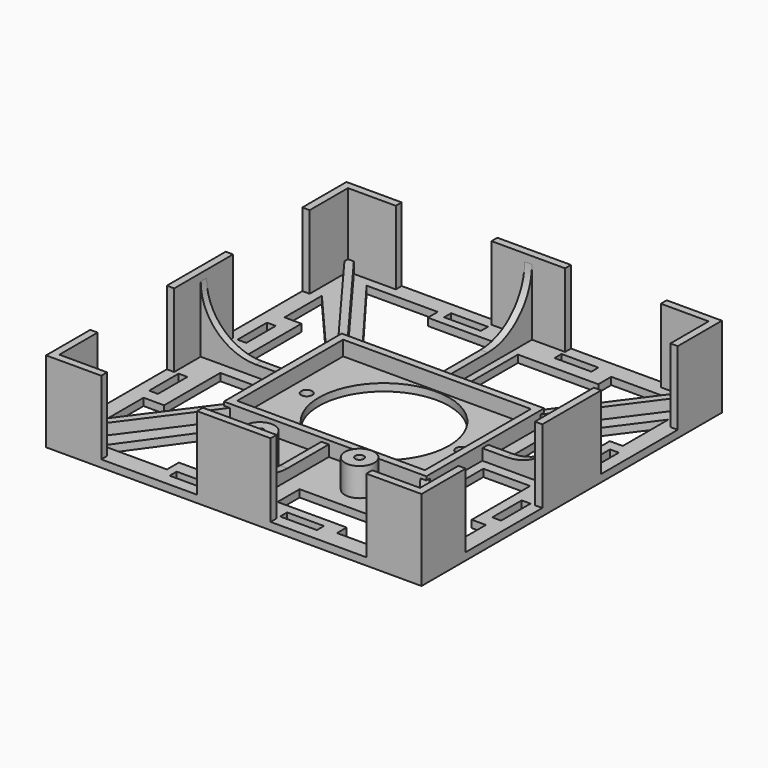
from build123d import *

# Parameters (mm, degrees)
SKETCH_W        = 102
SKETCH_H        = 102
PAD_DEPTH       = 2
SKETCH001_R     = 17.7
SKETCH001_R_2   = 1.5
SKETCH001_W     = 10
SKETCH001_H     = 2.4
SKETCH001_W_2   = 2.4
SKETCH001_H_2   = 10
POCKET_DEPTH    = 2.001
SKETCH002_R     = 4
SKETCH002_R_2   = 1.15
PAD001_DEPTH    = 7.7
SKETCH003_W     = 20
SKETCH003_H     = 2
SKETCH003_W_2   = 2
SKETCH003_H_2   = 20
PAD002_DEPTH    = 20
SKETCH004_W     = 55
SKETCH004_H     = 40
SKETCH004_W_2   = 51
SKETCH004_H_2   = 36
PAD003_DEPTH    = 4
SKETCH005_W     = 2
SKETCH005_H     = 29
SKETCH005_W_2   = 21.5
SKETCH005_H_2   = 2
PAD004_DEPTH    = 3
POCKET001_DEPTH = 2.001
FILLET_R        = 15


with BuildPart() as part:
    # Sketch → Pad (new body)
    with BuildSketch(Plane.XY):
        Rectangle(SKETCH_W, SKETCH_H)
    extrude(amount=PAD_DEPTH)

    # Sketch001 → Pocket (cut, through all)
    with BuildSketch(Plane.XY.offset(2)):
        Circle(SKETCH001_R)
        with Locations((-21, 0)):
            Circle(SKETCH001_R_2)
        with Locations((21, 0)):
            Circle(SKETCH001_R_2)
        with Locations((-15, 46.6)):
            Rectangle(SKETCH001_W, SKETCH001_H)
        with Locations((15, 46.6)):
            Rectangle(SKETCH001_W, SKETCH001_H)
        with Locations((46.6, 15)):
            Rectangle(SKETCH001_W_2, SKETCH001_H_2)
        with Locations((46.6, -15)):
            Rectangle(SKETCH001_W_2, SKETCH001_H_2)
        with Locations((15, -46.6)):
            Rectangle(SKETCH001_W, SKETCH001_H)
        with Locations((-15, -46.6)):
            Rectangle(SKETCH001_W, SKETCH001_H)
        with Locations((-46.6, 15)):
            Rectangle(SKETCH001_W_2, SKETCH001_H_2)
        with Locations((-46.6, -15)):
            Rectangle(SKETCH001_W_2, SKETCH001_H_2)
    extrude(amount=-POCKET_DEPTH, mode=Mode.SUBTRACT)

    # Sketch002 → Pad001 (new body)
    with BuildSketch(Plane.XY.offset(2)):
        with Locations((15.45, -27.6)):
            Circle(SKETCH002_R)
        with Locations((15.45, -27.6)):
            Circle(SKETCH002_R_2, mode=Mode.SUBTRACT)
        with Locations((-8.7, -31.3)):
            Circle(SKETCH002_R)
        with Locations((-8.7, -31.3)):
            Circle(SKETCH002_R_2, mode=Mode.SUBTRACT)
    extrude(amount=PAD001_DEPTH)

    # Sketch003 → Pad002 (new body)
    with BuildSketch(Plane.XY.offset(2)):
        Polygon((-51, 36), (-49, 36), (-49, 49), (-36, 49), (-36, 51), (-51, 51), align=None)
        Polygon((36, 51), (36, 49), (49, 49), (49, 36), (51, 36), (51, 51), align=None)
        Polygon((51, -36), (51, -51), (36, -51), (36, -49), (49, -49), (49, -36), align=None)
        Polygon((-51, -51), (-36, -51), (-36, -49), (-49, -49), (-49, -36), (-51, -36), align=None)
        with Locations((0, 50)):
            Rectangle(SKETCH003_W, SKETCH003_H)
        with Locations((50, 0)):
            Rectangle(SKETCH003_W_2, SKETCH003_H_2)
        with Locations((0, -50)):
            Rectangle(SKETCH003_W, SKETCH003_H)
        with Locations((-50, 0)):
            Rectangle(SKETCH003_W_2, SKETCH003_H_2)
    extrude(amount=PAD002_DEPTH)

    # Sketch004 → Pad003 (new body)
    with BuildSketch(Plane.XY.offset(2)):
        Rectangle(SKETCH004_W, SKETCH004_H)
        Rectangle(SKETCH004_W_2, SKETCH004_H_2, mode=Mode.SUBTRACT)
    extrude(amount=PAD003_DEPTH)

    # Sketch005 → Pad004 (new body)
    with BuildSketch(Plane.XY.offset(2)):
        with Locations((0, 34.5)):
            Rectangle(SKETCH005_W, SKETCH005_H)
        with Locations((38.25, 0)):
            Rectangle(SKETCH005_W_2, SKETCH005_H_2)
        with Locations((0, -34.5)):
            Rectangle(SKETCH005_W, SKETCH005_H)
        with Locations((-38.25, 0)):
            Rectangle(SKETCH005_W_2, SKETCH005_H_2)
        Polygon((-27.5, 18.808883), (-49, 47.808883), (-49, 49), (-47.393376, 49), (-25.893376, 20), (-27.5, 20), align=None)
        Polygon((25.893376, 20), (47.393376, 49), (49, 49), (49, 47.808883), (27.5, 18.808883), (27.5, 20), align=None)
        Polygon((47.393376, -49), (25.893376, -20), (27.5, -20), (27.5, -18.808883), (49, -47.808883), (49, -49), align=None)
        Polygon((-47.393376, -49), (-49, -49), (-49, -47.808883), (-27.5, -18.808883), (-27.5, -20), (-25.893376, -20), align=None)
    extrude(amount=PAD004_DEPTH)

    # Sketch006 → Pocket001 (cut, through all)
    with BuildSketch(Plane.XY.offset(2)):
        Polygon((-41.925284, 46.487865), (-23.968742, 22.569384), (-4.320471, 22.569384), (-4.320471, 43.105819), (-22.587998, 43.105819), (-22.587998, 46.487865), align=None)
        Polygon((2.93549, 41.811786), (2.93549, 22.665701), (24.092464, 22.665701), (41.469131, 46.201939), (24.769491, 46.201939), (24.769491, 41.811786), align=None)
        Polygon((46.52763, 38.437729), (46.52763, 22.923718), (43.001148, 22.923718), (43.001148, 3.595317), (30.999222, 3.595317), (30.999222, 17.497902), align=None)
        Polygon((46.533894, -38.494362), (46.533894, -23.565529), (42.681282, -23.565529), (42.681282, -3.724627), (29.967691, -3.724627), (29.967691, -17.593996), align=None)
        Polygon((40.177086, -46.199566), (24.188789, -46.199566), (24.188789, -42.924854), (5.40735, -42.924854), (5.40735, -35.412281), (23.610897, -35.412281), (23.610897, -25.010254), align=None)
        Polygon((-39.860725, -45.910622), (-25.124525, -25.395514), (-16.745111, -25.395514), (-16.745111, -41.865391), (-22.235073, -41.865391), (-22.235073, -45.910622), align=None)
        Polygon((-46.410149, 36.92033), (-46.410149, 24.206741), (-41.787029, 24.206741), (-41.787029, 5.232674), (-30.710796, 5.232674), (-30.710796, 18.71678), align=None)
        Polygon((-46.699104, -39.072254), (-46.699104, -23.276583), (-41.112823, -23.276583), (-41.112823, -4.206202), (-30.999743, -4.206202), (-30.999743, -18.2682), align=None)
    extrude(amount=-POCKET001_DEPTH, mode=Mode.SUBTRACT)

    # Fillet
    fillet_edges = [part.edges().sort_by_distance(p)[0] for p in [
        (-49, 0, 5),
        (0, 49, 5),
        (49, 0, 5),
        (0, -49, 5),
    ]]
    fillet(fillet_edges, radius=FILLET_R)


solid = part.part
